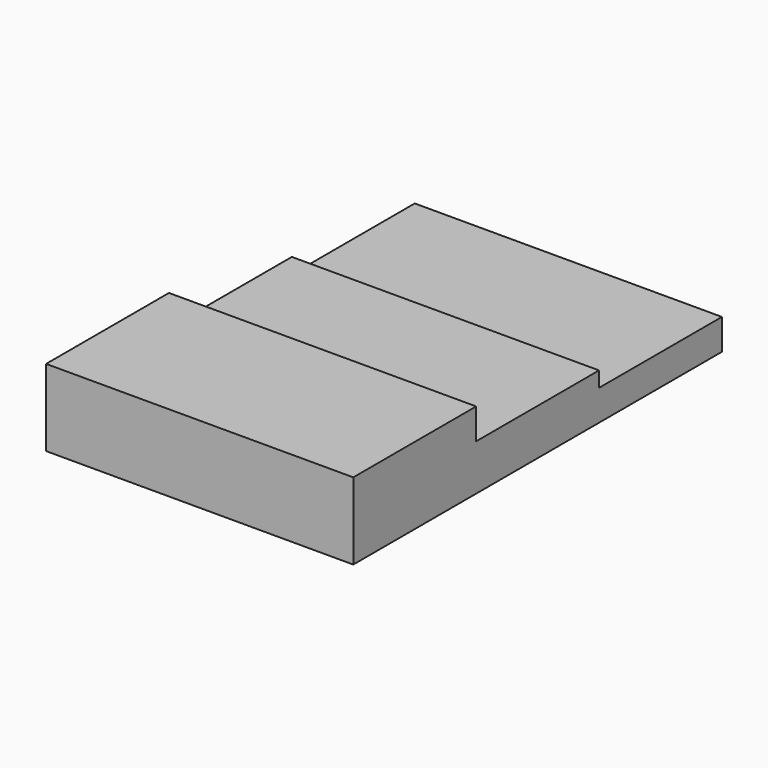
from build123d import *

# Parameters (mm, degrees)
F1_DEPTH  = 4000
F1_FACE_W = 4000
F1_FACE_H = 2000
F2_DEPTH  = 200


with BuildPart() as f1:
    # F0 (on Right) → F1 (new body)
    with BuildSketch(Plane.YZ):
        Polygon((-4764.897823, -632.146192), (-4764.897823, -1432.146192), (1235.102177, -1432.146192), (1235.102177, -1032.146192), (-764.897823, -1032.146192), (-764.897823, -832.146192), (-2764.897823, -832.146192), (-2764.897823, -632.146192), align=None)
    extrude(amount=F1_DEPTH)

    # F1_face (on face) → F2 (join)
    with BuildSketch(Plane(origin=(2000, -3764.897823, -632.146192), x_dir=(1, 0, 0), z_dir=(0, 0, 1))):
        Rectangle(F1_FACE_W, F1_FACE_H)
    extrude(amount=F2_DEPTH)


solid = f1.part
